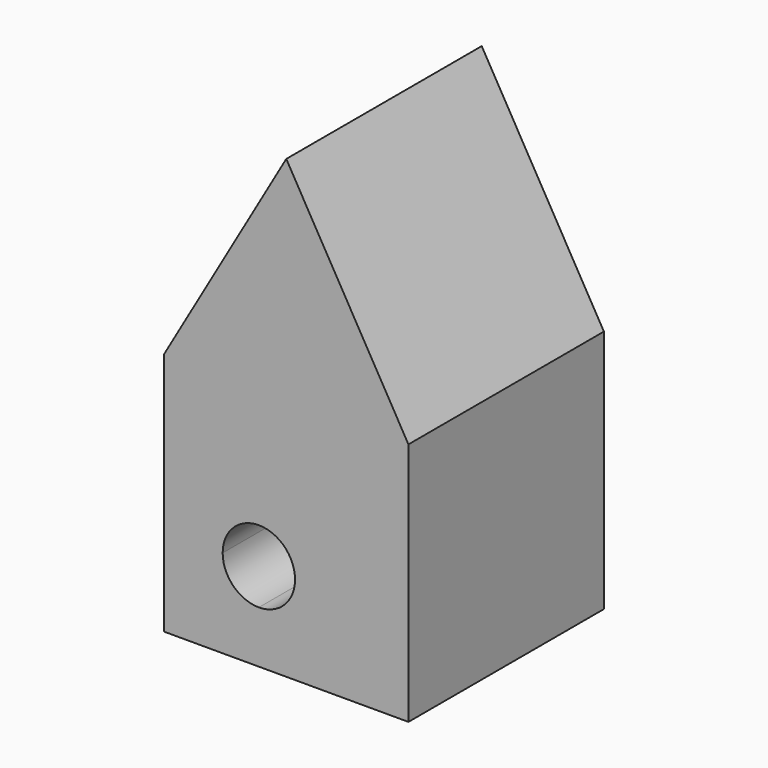
from build123d import *

# Parameters (mm, degrees)
F1_DEPTH = 50.8


with BuildPart() as f1:
    # F0 (on Front) → F1 (new body)
    with BuildSketch(Plane.XZ):
        with BuildLine():
            Line((-25.4, -7.025483), (-25.4, -25.4))
            Line((-25.4, -25.4), (-5.698589, -25.4))
            Line((-5.698589, -25.4), (-5.698589, -14.550702))
            ThreePointArc((-5.698589, -14.550702), (-11.019722, -12.346616), (-13.223808, -7.025483))
            Line((-13.223808, -7.025483), (-25.4, -7.025483))
        make_face()
        with BuildLine():
            Line((-5.698589, -14.550702), (-5.698589, -25.4))
            Line((-5.698589, -25.4), (25.4, -25.4))
            Line((25.4, -25.4), (25.4, -7.025483))
            Line((25.4, -7.025483), (1.82663, -7.025483))
            ThreePointArc((1.82663, -7.025483), (-0.377455, -12.346616), (-5.698589, -14.550702))
        make_face()
        with BuildLine():
            Line((-25.4, 25.4), (-25.4, -7.025483))
            Line((-25.4, -7.025483), (-13.223808, -7.025483))
            ThreePointArc((-13.223808, -7.025483), (-11.019722, -1.704349), (-5.698589, 0.499737))
            Line((-5.698589, 0.499737), (-5.698589, 25.4))
            Line((-5.698589, 25.4), (-25.4, 25.4))
        make_face()
        Polygon((0, 69.394091), (-25.4, 25.4), (-5.698589, 25.4), (25.4, 25.4), align=None)
        with BuildLine():
            Line((1.82663, -7.025483), (25.4, -7.025483))
            Line((25.4, -7.025483), (25.4, 25.4))
            Line((25.4, 25.4), (-5.698589, 25.4))
            Line((-5.698589, 25.4), (-5.698589, 0.499737))
            ThreePointArc((-5.698589, 0.499737), (-0.377455, -1.704349), (1.82663, -7.025483))
        make_face()
    extrude(amount=F1_DEPTH)


solid = f1.part
